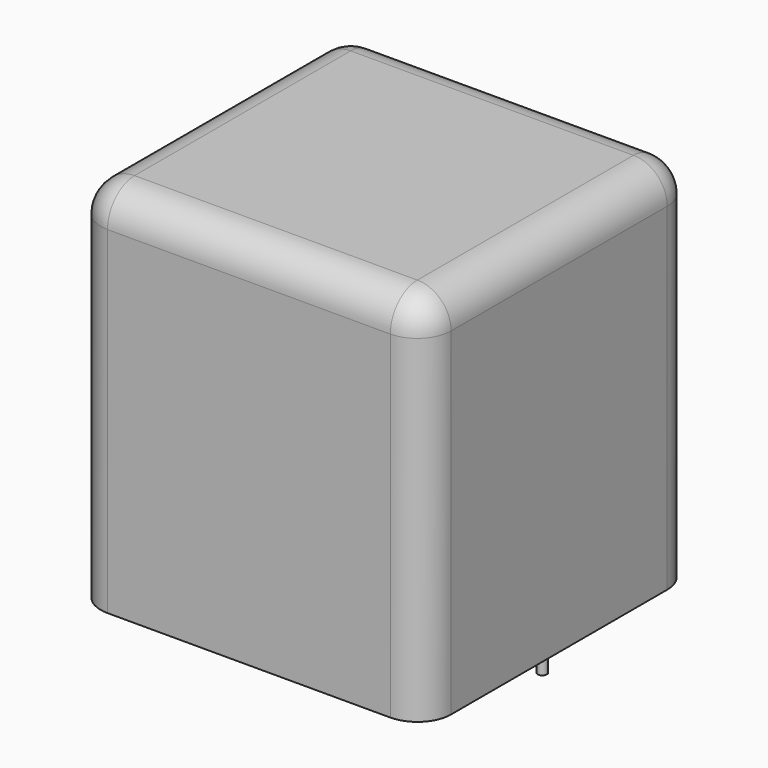
from build123d import *

# Parameters (mm, degrees)
SKETCH_W     = 41.5
SKETCH_H     = 40
PAD_DEPTH    = 44
FILLET_R     = 4
SKETCH001_R  = 0.55
PAD001_DEPTH = 3.2


with BuildPart() as fillet_body:
    # Sketch → Pad (new body)
    with BuildSketch(Plane.XY.offset(0.1)):
        with Locations((18.75, 0)):
            Rectangle(SKETCH_W, SKETCH_H)
    extrude(amount=PAD_DEPTH)

    # Fillet
    fillet_edges = [fillet_body.edges().sort_by_distance(p)[0] for p in [
        (-2, 0, 44.1),
        (-2, -20, 22.1),
        (18.75, -20, 44.1),
        (39.5, -20, 22.1),
        (39.5, 0, 44.1),
        (39.5, 20, 22.1),
        (18.75, 20, 44.1),
        (-2, 20, 22.1),
    ]]
    fillet(fillet_edges, radius=FILLET_R)


with BuildPart() as pad001:
    # Sketch001 → Pad001 (new body)
    with BuildSketch(Plane.XY.offset(0.5)):
        Circle(SKETCH001_R)
        with Locations((37.5, 0)):
            Circle(SKETCH001_R)
    extrude(amount=-PAD001_DEPTH)


solid = Compound([fillet_body.part, pad001.part])
